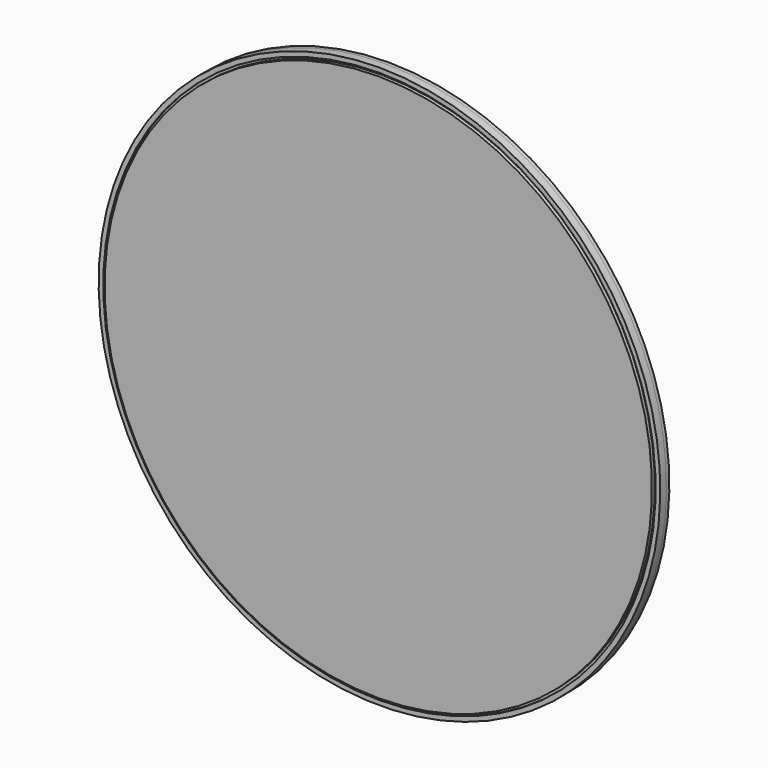
from build123d import *

# Parameters (mm, degrees)
F4_W = 10
F4_H = 770


with BuildPart() as f1:
    # F0 (on Right) → F1 (revolve)
    with BuildSketch(Plane.YZ):
        with BuildLine():
            Line((230, 0), (240, 0))
            ThreePointArc((240, 0), (186.864153, 321.63376), (33.103448, 609.086956))
            ThreePointArc((33.103448, 609.086956), (8.501736, 655.079468), (0, 706.540869))
            Line((0, 706.540869), (0, 790))
            Line((0, 790), (-10, 790))
            Line((-10, 790), (-10, 706.540869))
            ThreePointArc((-10, 706.540869), (-0.966906, 651.86313), (25.172414, 602.996087))
            ThreePointArc((25.172414, 602.996087), (177.395511, 318.417423), (230, 0))
        make_face()
    revolve(axis=Axis((0, -947.894936, 0), (0, -1, 0)))


with BuildPart() as f3:
    # F2 (on Right) → F3 (revolve)
    with BuildSketch(Plane.YZ):
        Polygon((-10, 730), (-10, 790), (-32, 790), (-32, 777), (-26, 777), (-26, 730), align=None)
    revolve(axis=Axis((0, -947.894936, 0), (0, -1, 0)))


with BuildPart() as f5:
    # F4 (on Right) → F5 (revolve)
    with BuildSketch(Plane.YZ):
        with Locations((-31, 385)):
            Rectangle(F4_W, F4_H)
    revolve(axis=Axis((0, -947.894936, 0), (0, -1, 0)))


solid = Compound([f1.part, f3.part, f5.part])
